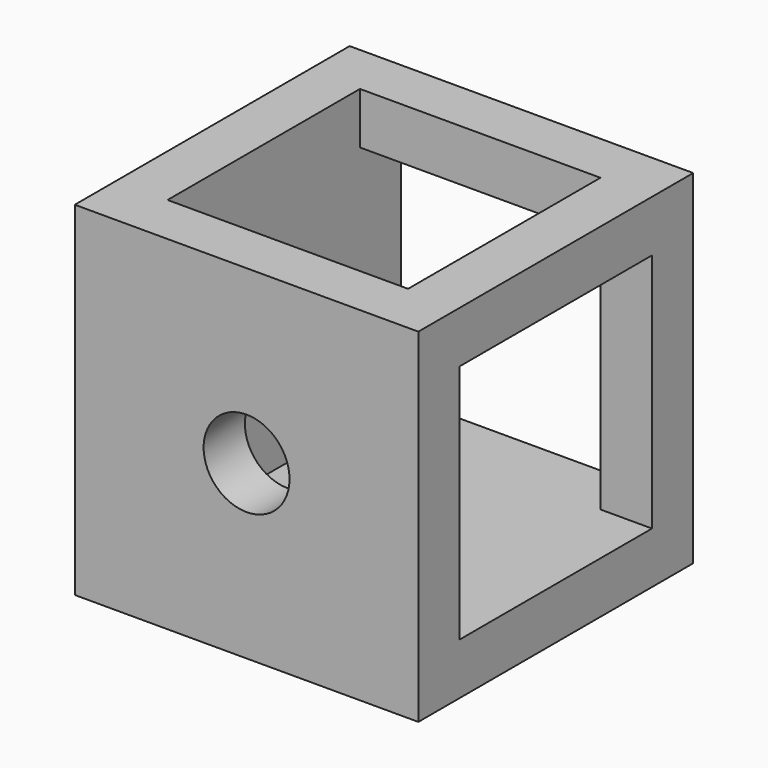
from build123d import *

# Parameters (mm, degrees)
SKETCH047_W     = 20
SKETCH047_H     = 20
PAD017_DEPTH    = 10
SKETCH048_R     = 2.5
HOLE015_DEPTH   = 25
SKETCH049_R     = 2.5
HOLE016_DEPTH   = 25
SKETCH050_R     = 2.5
HOLE017_DEPTH   = 25
SKETCH051_W     = 14
SKETCH051_H     = 14
POCKET015_DEPTH = 17
SKETCH052_W     = 14
SKETCH052_H     = 14
POCKET016_DEPTH = 17
SKETCH053_W     = 14
SKETCH053_H     = 14
POCKET017_DEPTH = 17


with BuildPart() as part:
    # Sketch047 → Pad017 (new body, symmetric)
    with BuildSketch(Plane.XZ):
        Rectangle(SKETCH047_W, SKETCH047_H)
    extrude(amount=PAD017_DEPTH, both=True)

    # Sketch048 (on Face1 of Pad017) → Hole015 (cut)
    with BuildSketch(Plane(origin=(0, 0, 10), x_dir=(-1, 0, 0), z_dir=(0, 0, 1))):
        Circle(SKETCH048_R)
    extrude(amount=-HOLE015_DEPTH, mode=Mode.SUBTRACT)

    # Sketch049 (on Face2 of Hole015) → Hole016 (cut)
    with BuildSketch(Plane(origin=(10, 0, 0), x_dir=(0, 0, 1), z_dir=(1, 0, 0))):
        Circle(SKETCH049_R)
    extrude(amount=-HOLE016_DEPTH, mode=Mode.SUBTRACT)

    # Sketch050 (on Face3 of Hole015) → Hole017 (cut)
    with BuildSketch(Plane(origin=(0, 10, 0), x_dir=(1, 0, 0), z_dir=(0, 1, 0))):
        Circle(SKETCH050_R)
    extrude(amount=-HOLE017_DEPTH, mode=Mode.SUBTRACT)

    # Sketch051 (on Face2 of Hole017) → Pocket015 (cut)
    with BuildSketch(Plane(origin=(10, 0, 0), x_dir=(0, 0, 1), z_dir=(1, 0, 0))):
        Rectangle(SKETCH051_W, SKETCH051_H)
    extrude(amount=-POCKET015_DEPTH, mode=Mode.SUBTRACT)

    # Sketch052 (on Face3 of Pocket015) → Pocket016 (cut)
    with BuildSketch(Plane(origin=(0, 10, 0), x_dir=(1, 0, 0), z_dir=(0, 1, 0))):
        Rectangle(SKETCH052_W, SKETCH052_H)
    extrude(amount=-POCKET016_DEPTH, mode=Mode.SUBTRACT)

    # Sketch053 (on Face1 of Pocket016) → Pocket017 (cut)
    with BuildSketch(Plane(origin=(0, 0, 10), x_dir=(-1, 0, 0), z_dir=(0, 0, 1))):
        Rectangle(SKETCH053_W, SKETCH053_H)
    extrude(amount=-POCKET017_DEPTH, mode=Mode.SUBTRACT)


solid = part.part
